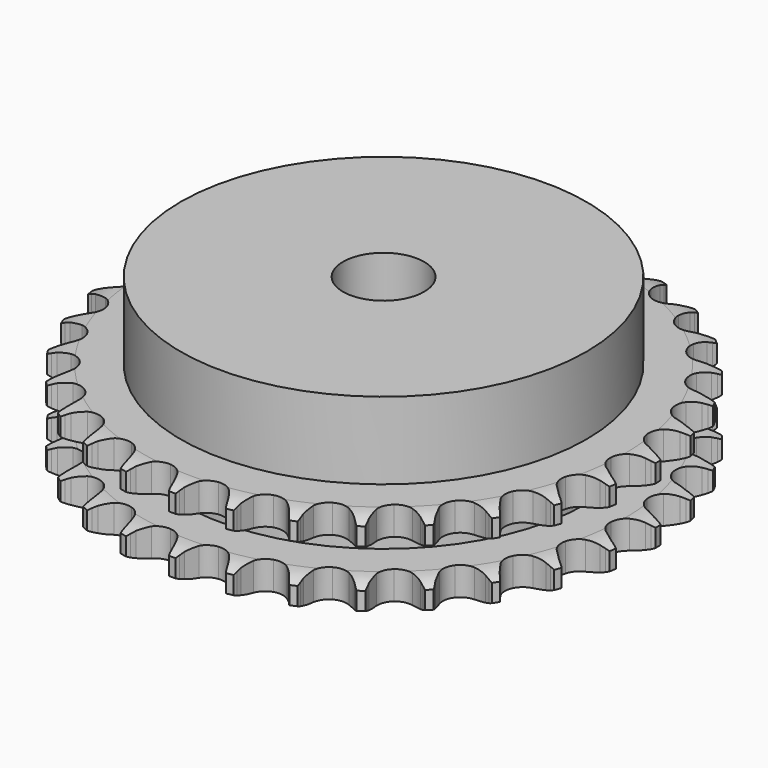
from build123d import *

# Parameters (mm, degrees)
PAD_DEPTH         = 21
SKETCH001_R       = 50
PAD001_DEPTH      = 40
SKETCH002_R       = 10
POCKET_DEPTH      = 0.001
POCKET_DEPTH_BACK = 40.001


with BuildPart() as part:
    # Sprocket → Pad (new body)
    with BuildSketch(Plane.XY):
        with BuildLine():
            ThreePointArc((-6.734861, 66.229298), (-5.950048, 65.186321), (-5.374824, 64.014634))
            Line((-5.374824, 64.014634), (-4.959758, 62.918621))
            ThreePointArc((-4.959758, 62.918621), (-4.301269, 61.492886), (-3.448535, 60.174109))
            ThreePointArc((-3.448535, 60.174109), (-1.927238, 58.906685), (0, 58.452308))
            ThreePointArc((0, 58.452308), (1.927238, 58.906685), (3.448535, 60.174109))
            ThreePointArc((3.448535, 60.174109), (4.301269, 61.492886), (4.959758, 62.918621))
            Line((4.959758, 62.918621), (5.374824, 64.014634))
            ThreePointArc((5.374824, 64.014634), (5.950048, 65.186321), (6.734861, 66.229298))
            ThreePointArc((6.734861, 66.229298), (7.293659, 65.049689), (7.62125, 63.786195))
            Line((7.62125, 63.786195), (7.807193, 62.629065))
            ThreePointArc((7.807193, 62.629065), (8.165206, 61.099962), (8.735016, 59.636526))
            ThreePointArc((8.735016, 59.636526), (9.970041, 58.088812), (11.766363, 57.255786))
            ThreePointArc((11.766363, 57.255786), (13.745616, 57.312912), (15.490902, 58.248156))
            Line((15.490902, 58.248156), (17.523657, 60.632281))
            ThreePointArc((17.523657, 60.632281), (17.824206, 61.135561), (18.150852, 61.622307))
            ThreePointArc((18.150852, 61.622307), (18.95016, 62.654217), (19.928858, 63.517862))
            ThreePointArc((19.928858, 63.517862), (20.238764, 62.249915), (20.305309, 60.946342))
            Line((20.305309, 60.946342), (20.254518, 59.775468))
            ThreePointArc((20.254518, 59.775468), (20.297395, 58.205599), (20.560954, 56.657417))
            ThreePointArc((20.560954, 56.657417), (21.459146, 54.892776), (23.05101, 53.715205))
            ThreePointArc((23.05101, 53.715205), (25.001247, 53.372741), (26.89907, 53.937518))
            Line((26.89907, 53.937518), (29.370135, 55.863649))
            ThreePointArc((29.370135, 55.863649), (29.765841, 56.296126), (30.183783, 56.707155))
            ThreePointArc((30.183783, 56.707155), (31.174451, 57.557042), (32.306965, 58.205998))
            ThreePointArc((32.306965, 58.205998), (32.355291, 56.901622), (32.158067, 55.611338))
            Line((32.158067, 55.611338), (31.87262, 54.474656))
            ThreePointArc((31.87262, 54.474656), (31.598607, 52.928291), (31.545125, 51.358747))
            ThreePointArc((31.545125, 51.358747), (32.06971, 49.449423), (33.391946, 47.975517))
            ThreePointArc((33.391946, 47.975517), (35.233323, 47.247484), (37.205987, 47.41867))
            Line((37.205987, 47.41867), (40.014197, 48.807952))
            ThreePointArc((40.014197, 48.807952), (40.488859, 49.151921), (40.980985, 49.470405))
            ThreePointArc((40.980985, 49.470405), (42.122455, 50.103475), (43.362421, 50.511174))
            ThreePointArc((43.362421, 50.511174), (43.147189, 49.223771), (42.694269, 47.999599))
            Line((42.694269, 47.999599), (42.185853, 46.943646))
            ThreePointArc((42.185853, 46.943646), (41.606169, 45.484093), (41.237834, 43.957443))
            ThreePointArc((41.237834, 43.957443), (41.367337, 41.981606), (42.365811, 40.271707))
            ThreePointArc((42.365811, 40.271707), (44.022944, 39.187909), (45.989686, 38.958497))
            Line((45.989686, 38.958497), (49.020072, 39.754051))
            ThreePointArc((49.020072, 39.754051), (49.554259, 39.995431), (50.100421, 40.208331))
            ThreePointArc((50.100421, 40.208331), (51.345962, 40.598666), (52.642614, 40.748416))
            ThreePointArc((52.642614, 40.748416), (52.172635, 39.530692), (51.482563, 38.422751))
            Line((51.482563, 38.422751), (50.771993, 37.490757))
            ThreePointArc((50.771993, 37.490757), (49.910368, 36.177771), (49.242261, 34.756517))
            ThreePointArc((49.242261, 34.756517), (48.97138, 32.795056), (49.605216, 30.919167))
            ThreePointArc((49.605216, 30.919167), (51.01026, 29.523977), (52.890563, 28.903359))
            Line((52.890563, 28.903359), (56.01906, 29.072616))
            ThreePointArc((56.01906, 29.072616), (56.590902, 29.201523), (57.16874, 29.300124))
            ThreePointArc((57.16874, 29.300124), (58.467358, 29.431743), (59.767612, 29.317414))
            ThreePointArc((59.767612, 29.317414), (59.062128, 28.219222), (58.163155, 27.272872))
            Line((58.163155, 27.272872), (57.279521, 26.502992))
            ThreePointArc((57.279521, 26.502992), (56.171232, 25.390326), (55.230705, 24.132655))
            ThreePointArc((55.230705, 24.132655), (54.57053, 22.265873), (54.813776, 20.300794))
            ThreePointArc((54.813776, 20.300794), (55.909209, 18.651329), (57.626093, 17.664913))
            Line((57.626093, 17.664913), (60.724621, 17.200944))
            ThreePointArc((60.724621, 17.200944), (61.310706, 17.212101), (61.896564, 17.192366))
            ThreePointArc((61.896564, 17.192366), (63.195094, 17.059881), (64.445718, 16.686152))
            ThreePointArc((64.445718, 16.686152), (63.533611, 15.752454), (62.46254, 15.006437))
            Line((62.46254, 15.006437), (61.442019, 14.430191))
            ThreePointArc((61.442019, 14.430191), (60.132439, 13.563399), (58.957997, 12.520799))
            ThreePointArc((58.957997, 12.520799), (57.935555, 10.825122), (57.778255, 8.851303))
            ThreePointArc((57.778255, 8.851303), (58.51923, 7.015094), (60.002404, 5.703264))
            Line((60.002404, 5.703264), (62.944109, 4.625063))
            ThreePointArc((62.944109, 4.625063), (63.520443, 4.518014), (64.090336, 4.38075))
            ThreePointArc((64.090336, 4.38075), (65.335616, 3.989585), (66.485408, 3.371758))
            ThreePointArc((66.485408, 3.371758), (65.40402, 2.640779), (64.204702, 2.125638))
            Line((64.204702, 2.125638), (63.089073, 1.766617))
            ThreePointArc((63.089073, 1.766617), (61.631816, 1.181184), (60.271541, 0.39634))
            ThreePointArc((60.271541, 0.39634), (58.928692, -1.05881), (58.377285, -2.960561))
            ThreePointArc((58.377285, -2.960561), (58.733466, -4.908339), (59.92221, -6.491877))
            Line((59.92221, -6.491877), (62.586658, -8.140168))
            ThreePointArc((62.586658, -8.140168), (63.129645, -8.361041), (63.660241, -8.610214))
            ThreePointArc((63.660241, -8.610214), (64.80129, -9.244045), (65.803178, -10.080676))
            ThreePointArc((65.803178, -10.080676), (64.59678, -10.579011), (63.318316, -10.842186))
            Line((63.318316, -10.842186), (62.153253, -10.969283))
            ThreePointArc((62.153253, -10.969283), (60.60798, -11.249388), (59.117562, -11.744345))
            ThreePointArc((59.117562, -11.744345), (57.509281, -12.899395), (56.586342, -14.651219))
            ThreePointArc((56.586342, -14.651219), (56.543147, -16.630825), (57.388794, -18.42124))
            Line((57.388794, -18.42124), (59.666901, -20.57214))
            ThreePointArc((59.666901, -20.57214), (60.154312, -20.897794), (60.623889, -21.248675))
            ThreePointArc((60.623889, -21.248675), (61.613991, -22.099222), (62.426958, -23.120406))
            ThreePointArc((62.426958, -23.120406), (61.144941, -23.365694), (59.83967, -23.366129))
            Line((59.83967, -23.366129), (58.672872, -23.256099))
            ThreePointArc((58.672872, -23.256099), (57.102846, -23.219409), (55.543303, -23.404216))
            ThreePointArc((55.543303, -23.404216), (53.735434, -24.211876), (52.478748, -25.742055))
            ThreePointArc((52.478748, -25.742055), (52.037945, -27.672443), (52.505874, -29.596436))
            Line((52.505874, -29.596436), (54.304375, -32.161886))
            ThreePointArc((54.304375, -32.161886), (54.716255, -32.578989), (55.105588, -33.017212))
            ThreePointArc((55.105588, -33.017212), (55.904208, -34.049655), (56.494971, -35.213584))
            ThreePointArc((56.494971, -35.213584), (55.189821, -35.195783), (53.911182, -34.93346))
            Line((53.911182, -34.93346), (52.790417, -34.590808))
            ThreePointArc((52.790417, -34.590808), (51.259915, -34.238825), (49.695094, -34.105915))
            ThreePointArc((49.695094, -34.105915), (47.761651, -34.533121), (46.222667, -35.779007))
            ThreePointArc((46.222667, -35.779007), (45.402303, -37.581148), (45.473357, -39.559949))
            Line((45.473357, -39.559949), (46.718621, -42.434921))
            ThreePointArc((46.718621, -42.434921), (47.038108, -42.926396), (47.331257, -43.434021))
            ThreePointArc((47.331257, -43.434021), (47.905701, -44.606091), (48.250073, -45.865114))
            ThreePointArc((48.250073, -45.865114), (46.975223, -45.584953), (45.775563, -45.070611))
            Line((45.775563, -45.070611), (44.746715, -44.509365))
            ThreePointArc((44.746715, -44.509365), (43.318396, -43.856499), (41.812362, -43.411313))
            ThreePointArc((41.812362, -43.411313), (39.832501, -43.440576), (38.074225, -44.351164))
            ThreePointArc((38.074225, -44.351164), (36.907886, -45.951276), (36.579155, -47.903874))
            Line((36.579155, -47.903874), (37.220201, -50.970665))
            ThreePointArc((37.220201, -50.970665), (37.434215, -51.516392), (37.61918, -52.072636))
            ThreePointArc((37.61918, -52.072636), (37.945928, -53.336348), (38.029811, -54.638921))
            ThreePointArc((38.029811, -54.638921), (36.837454, -54.107869), (35.765887, -53.362566))
            Line((35.765887, -53.362566), (34.871078, -52.605703))
            ThreePointArc((34.871078, -52.605703), (33.603418, -51.678683), (32.217828, -50.939448))
            ThreePointArc((32.217828, -50.939448), (30.272604, -50.569568), (28.36702, -51.107578))
            ThreePointArc((28.36702, -51.107578), (26.902456, -52.440153), (26.187399, -54.286609))
            Line((26.187399, -54.286609), (26.197982, -57.419664))
            ThreePointArc((26.197982, -57.419664), (26.297761, -57.9973), (26.366968, -58.579392))
            ThreePointArc((26.366968, -58.579392), (26.432645, -59.883009), (26.252605, -61.175804))
            ThreePointArc((26.252605, -61.175804), (25.191555, -60.415603), (24.291952, -59.469851))
            Line((24.291952, -59.469851), (23.567815, -58.548358))
            ThreePointArc((23.567815, -58.548358), (22.512712, -57.385135), (21.304291, -56.382115))
            ThreePointArc((21.304291, -56.382115), (19.473343, -55.628237), (17.498465, -55.771642))
            ThreePointArc((17.498465, -55.771642), (15.795636, -56.782125), (14.723527, -58.446844))
            Line((14.723527, -58.446844), (14.103215, -61.517895))
            ThreePointArc((14.103215, -61.517895), (14.084674, -62.103793), (14.03529, -62.6879))
            ThreePointArc((14.03529, -62.6879), (13.837206, -63.978053), (13.400614, -65.208142))
            ThreePointArc((13.400614, -65.208142), (12.514311, -64.249914), (11.823501, -63.142434))
            Line((11.823501, -63.142434), (11.299683, -62.094036))
            ThreePointArc((11.299683, -62.094036), (10.500332, -60.742234), (9.518555, -59.516492))
            ThreePointArc((9.518555, -59.516492), (7.876841, -58.409478), (5.913522, -58.152408))
            ThreePointArc((5.913522, -58.152408), (4.04214, -58.799429), (2.656872, -60.214257))
            Line((2.656872, -60.214257), (1.43106, -63.097576))
            ThreePointArc((1.43106, -63.097576), (1.294958, -63.667748), (1.129005, -64.229958))
            ThreePointArc((1.129005, -64.229958), (0.67527, -65.453827), (0, -66.570851))
            ThreePointArc((0, -66.570851), (-0.67527, -65.453827), (-1.129005, -64.229958))
            Line((-1.129005, -64.229958), (-1.43106, -63.097576))
            ThreePointArc((-1.43106, -63.097576), (-1.941932, -61.612538), (-2.656872, -60.214257))
            ThreePointArc((-2.656872, -60.214257), (-4.04214, -58.799429), (-5.913522, -58.152408))
            ThreePointArc((-5.913522, -58.152408), (-7.876841, -58.409478), (-9.518555, -59.516492))
            Line((-9.518555, -59.516492), (-11.299683, -62.094036))
            ThreePointArc((-11.299683, -62.094036), (-11.547773, -62.625139), (-11.823501, -63.142434))
            ThreePointArc((-11.823501, -63.142434), (-12.514311, -64.249914), (-13.400614, -65.208142))
            ThreePointArc((-13.400614, -65.208142), (-13.837206, -63.978053), (-14.03529, -62.6879))
            Line((-14.03529, -62.6879), (-14.103215, -61.517895))
            ThreePointArc((-14.103215, -61.517895), (-14.304693, -59.960418), (-14.723527, -58.446844))
            ThreePointArc((-14.723527, -58.446844), (-15.795636, -56.782125), (-17.498465, -55.771642))
            ThreePointArc((-17.498465, -55.771642), (-19.473343, -55.628237), (-21.304291, -56.382115))
            Line((-21.304291, -56.382115), (-23.567815, -58.548358))
            ThreePointArc((-23.567815, -58.548358), (-23.917738, -59.018649), (-24.291952, -59.469851))
            ThreePointArc((-24.291952, -59.469851), (-25.191555, -60.415603), (-26.252605, -61.175804))
            ThreePointArc((-26.252605, -61.175804), (-26.432645, -59.883009), (-26.366968, -58.579392))
            Line((-26.366968, -58.579392), (-26.197982, -57.419664))
            ThreePointArc((-26.197982, -57.419664), (-26.081819, -55.853511), (-26.187399, -54.286609))
            ThreePointArc((-26.187399, -54.286609), (-26.902456, -52.440153), (-28.36702, -51.107578))
            ThreePointArc((-28.36702, -51.107578), (-30.272604, -50.569568), (-32.217828, -50.939448))
            Line((-32.217828, -50.939448), (-34.871078, -52.605703))
            ThreePointArc((-34.871078, -52.605703), (-35.308507, -52.995928), (-35.765887, -53.362566))
            ThreePointArc((-35.765887, -53.362566), (-36.837454, -54.107869), (-38.029811, -54.638921))
            ThreePointArc((-38.029811, -54.638921), (-37.945928, -53.336348), (-37.61918, -52.072636))
            Line((-37.61918, -52.072636), (-37.220201, -50.970665))
            ThreePointArc((-37.220201, -50.970665), (-36.791151, -49.459955), (-36.579155, -47.903874))
            ThreePointArc((-36.579155, -47.903874), (-36.907886, -45.951276), (-38.074225, -44.351164))
            ThreePointArc((-38.074225, -44.351164), (-39.832501, -43.440576), (-41.812362, -43.411313))
            Line((-41.812362, -43.411313), (-44.746715, -44.509365))
            ThreePointArc((-44.746715, -44.509365), (-45.253742, -44.803549), (-45.775563, -45.070611))
            ThreePointArc((-45.775563, -45.070611), (-46.975223, -45.584953), (-48.250073, -45.865114))
            ThreePointArc((-48.250073, -45.865114), (-47.905701, -44.606091), (-47.331257, -43.434021))
            Line((-47.331257, -43.434021), (-46.718621, -42.434921))
            ThreePointArc((-46.718621, -42.434921), (-45.99425, -41.041502), (-45.473357, -39.559949))
            ThreePointArc((-45.473357, -39.559949), (-45.402303, -37.581148), (-46.222667, -35.779007))
            ThreePointArc((-46.222667, -35.779007), (-47.761651, -34.533121), (-49.695094, -34.105915))
            Line((-49.695094, -34.105915), (-52.790417, -34.590808))
            ThreePointArc((-52.790417, -34.590808), (-53.346283, -34.776906), (-53.911182, -34.93346))
            ThreePointArc((-53.911182, -34.93346), (-55.189821, -35.195783), (-56.494971, -35.213584))
            ThreePointArc((-56.494971, -35.213584), (-55.904208, -34.049655), (-55.105588, -33.017212))
            Line((-55.105588, -33.017212), (-54.304375, -32.161886))
            ThreePointArc((-54.304375, -32.161886), (-53.314339, -30.942806), (-52.505874, -29.596436))
            ThreePointArc((-52.505874, -29.596436), (-52.037945, -27.672443), (-52.478748, -25.742055))
            ThreePointArc((-52.478748, -25.742055), (-53.735434, -24.211876), (-55.543303, -23.404216))
            Line((-55.543303, -23.404216), (-58.672872, -23.256099))
            ThreePointArc((-58.672872, -23.256099), (-59.254821, -23.326493), (-59.83967, -23.366129))
            ThreePointArc((-59.83967, -23.366129), (-61.144941, -23.365694), (-62.426958, -23.120406))
            ThreePointArc((-62.426958, -23.120406), (-61.613991, -22.099222), (-60.623889, -21.248675))
            Line((-60.623889, -21.248675), (-59.666901, -20.57214))
            ThreePointArc((-59.666901, -20.57214), (-58.451732, -19.577307), (-57.388794, -18.42124))
            ThreePointArc((-57.388794, -18.42124), (-56.543147, -16.630825), (-56.586342, -14.651219))
            ThreePointArc((-56.586342, -14.651219), (-57.509281, -12.899395), (-59.117562, -11.744345))
            Line((-59.117562, -11.744345), (-62.153253, -10.969283))
            ThreePointArc((-62.153253, -10.969283), (-62.73746, -10.921091), (-63.318316, -10.842186))
            ThreePointArc((-63.318316, -10.842186), (-64.59678, -10.579011), (-65.803178, -10.080676))
            ThreePointArc((-65.803178, -10.080676), (-64.80129, -9.244045), (-63.660241, -8.610214))
            Line((-63.660241, -8.610214), (-62.586658, -8.140168))
            ThreePointArc((-62.586658, -8.140168), (-61.196105, -7.410312), (-59.92221, -6.491877))
            ThreePointArc((-59.92221, -6.491877), (-58.733466, -4.908339), (-58.377285, -2.960561))
            ThreePointArc((-58.377285, -2.960561), (-58.928692, -1.05881), (-60.271541, 0.39634))
            Line((-60.271541, 0.39634), (-63.089073, 1.766617))
            ThreePointArc((-63.089073, 1.766617), (-63.65162, 1.931423), (-64.204702, 2.125638))
            ThreePointArc((-64.204702, 2.125638), (-65.40402, 2.640779), (-66.485408, 3.371758))
            ThreePointArc((-66.485408, 3.371758), (-65.335616, 3.989585), (-64.090336, 4.38075))
            Line((-64.090336, 4.38075), (-62.944109, 4.625063))
            ThreePointArc((-62.944109, 4.625063), (-61.435102, 5.060063), (-60.002404, 5.703264))
            ThreePointArc((-60.002404, 5.703264), (-58.51923, 7.015094), (-57.778255, 8.851303))
            ThreePointArc((-57.778255, 8.851303), (-57.935555, 10.825122), (-58.957997, 12.520799))
            Line((-58.957997, 12.520799), (-61.442019, 14.430191))
            ThreePointArc((-61.442019, 14.430191), (-61.959875, 14.704863), (-62.46254, 15.006437))
            ThreePointArc((-62.46254, 15.006437), (-63.533611, 15.752454), (-64.445718, 16.686152))
            ThreePointArc((-64.445718, 16.686152), (-63.195094, 17.059881), (-61.896564, 17.192366))
            Line((-61.896564, 17.192366), (-60.724621, 17.200944))
            ThreePointArc((-60.724621, 17.200944), (-59.158938, 17.323279), (-57.626093, 17.664913))
            ThreePointArc((-57.626093, 17.664913), (-55.909209, 18.651329), (-54.813776, 20.300794))
            ThreePointArc((-54.813776, 20.300794), (-54.57053, 22.265873), (-55.230705, 24.132655))
            Line((-55.230705, 24.132655), (-57.279521, 26.502992))
            ThreePointArc((-57.279521, 26.502992), (-57.731485, 26.876285), (-58.163155, 27.272872))
            ThreePointArc((-58.163155, 27.272872), (-59.062128, 28.219222), (-59.767612, 29.317414))
            ThreePointArc((-59.767612, 29.317414), (-58.467358, 29.431743), (-57.16874, 29.300124))
            Line((-57.16874, 29.300124), (-56.01906, 29.072616))
            ThreePointArc((-56.01906, 29.072616), (-54.460801, 28.877277), (-52.890563, 28.903359))
            ThreePointArc((-52.890563, 28.903359), (-51.01026, 29.523977), (-49.605216, 30.919167))
            ThreePointArc((-49.605216, 30.919167), (-48.97138, 32.795056), (-49.242261, 34.756517))
            Line((-49.242261, 34.756517), (-50.771993, 37.490757))
            ThreePointArc((-50.771993, 37.490757), (-51.139562, 37.947388), (-51.482563, 38.422751))
            ThreePointArc((-51.482563, 38.422751), (-52.172635, 39.530692), (-52.642614, 40.748416))
            ThreePointArc((-52.642614, 40.748416), (-51.345962, 40.598666), (-50.100421, 40.208331))
            Line((-50.100421, 40.208331), (-49.020072, 39.754051))
            ThreePointArc((-49.020072, 39.754051), (-47.533032, 39.249036), (-45.989686, 38.958497))
            ThreePointArc((-45.989686, 38.958497), (-44.022944, 39.187909), (-42.365811, 40.271707))
            ThreePointArc((-42.365811, 40.271707), (-41.367337, 41.981606), (-41.237834, 43.957443))
            Line((-41.237834, 43.957443), (-42.185853, 46.943646))
            ThreePointArc((-42.185853, 46.943646), (-42.453979, 47.464921), (-42.694269, 47.999599))
            ThreePointArc((-42.694269, 47.999599), (-43.147189, 49.223771), (-43.362421, 50.511174))
            ThreePointArc((-43.362421, 50.511174), (-42.122455, 50.103475), (-40.980985, 49.470405))
            Line((-40.980985, 49.470405), (-40.014197, 48.807952))
            ThreePointArc((-40.014197, 48.807952), (-38.659255, 48.013935), (-37.205987, 47.41867))
            ThreePointArc((-37.205987, 47.41867), (-35.233323, 47.247484), (-33.391946, 47.975517))
            ThreePointArc((-33.391946, 47.975517), (-32.06971, 49.449423), (-31.545125, 51.358747))
            Line((-31.545125, 51.358747), (-31.87262, 54.474656))
            ThreePointArc((-31.87262, 54.474656), (-32.030325, 55.039235), (-32.158067, 55.611338))
            ThreePointArc((-32.158067, 55.611338), (-32.355291, 56.901622), (-32.306965, 58.205998))
            ThreePointArc((-32.306965, 58.205998), (-31.174451, 57.557042), (-30.183783, 56.707155))
            Line((-30.183783, 56.707155), (-29.370135, 55.863649))
            ThreePointArc((-29.370135, 55.863649), (-28.202764, 54.813138), (-26.89907, 53.937518))
            ThreePointArc((-26.89907, 53.937518), (-25.001247, 53.372741), (-23.05101, 53.715205))
            ThreePointArc((-23.05101, 53.715205), (-21.459146, 54.892776), (-20.560954, 56.657417))
            Line((-20.560954, 56.657417), (-20.254518, 59.775468))
            ThreePointArc((-20.254518, 59.775468), (-20.295346, 60.360235), (-20.305309, 60.946342))
            ThreePointArc((-20.305309, 60.946342), (-20.238764, 62.249915), (-19.928858, 63.517862))
            ThreePointArc((-19.928858, 63.517862), (-18.95016, 62.654217), (-18.150852, 61.622307))
            Line((-18.150852, 61.622307), (-17.523657, 60.632281))
            ThreePointArc((-17.523657, 60.632281), (-16.591648, 59.368284), (-15.490902, 58.248156))
            ThreePointArc((-15.490902, 58.248156), (-13.745616, 57.312912), (-11.766363, 57.255786))
            ThreePointArc((-11.766363, 57.255786), (-9.970041, 58.088812), (-8.735016, 59.636526))
            Line((-8.735016, 59.636526), (-7.807193, 62.629065))
            ThreePointArc((-7.807193, 62.629065), (-7.729473, 63.210081), (-7.62125, 63.786195))
            ThreePointArc((-7.62125, 63.786195), (-7.293659, 65.049689), (-6.734861, 66.229298))
        make_face()
    extrude(amount=PAD_DEPTH)

    # Sketch → Groove (revolve, cut)
    with BuildSketch(Plane.XZ):
        with BuildLine():
            ThreePointArc((59.433431, 0), (62.34032, 0.329167), (65.1, 1.3))
            Line((65.1, 1.3), (65.1, 5.7))
            ThreePointArc((65.1, 5.7), (62.34032, 6.670833), (59.433431, 7))
            Line((50, 7), (59.433431, 7))
            Line((50, 14), (50, 7))
            Line((59.433431, 14), (50, 14))
            ThreePointArc((59.433431, 14), (62.34032, 14.329167), (65.1, 15.3))
            Line((65.1, 15.3), (65.1, 19.7))
            ThreePointArc((65.1, 19.7), (62.34032, 20.670833), (59.433431, 21))
            Line((59.433431, 21), (69.433431, 21))
            Line((69.433431, 21), (69.433431, 0))
            Line((59.433431, 0), (69.433431, 0))
        make_face()
    revolve(axis=Axis((0, 0, 0), (0, 0, 1)), mode=Mode.SUBTRACT)

    # Sketch001 → Pad001 (join)
    with BuildSketch(Plane.XY):
        Circle(SKETCH001_R)
    extrude(amount=PAD001_DEPTH)

    # Sketch002 → Pocket (cut, two sides)
    with BuildSketch(Plane.XY) as pocket_sk:
        Circle(SKETCH002_R)
    extrude(amount=-POCKET_DEPTH, mode=Mode.SUBTRACT)
    extrude(pocket_sk.sketch, amount=POCKET_DEPTH_BACK, mode=Mode.SUBTRACT)


solid = part.part
